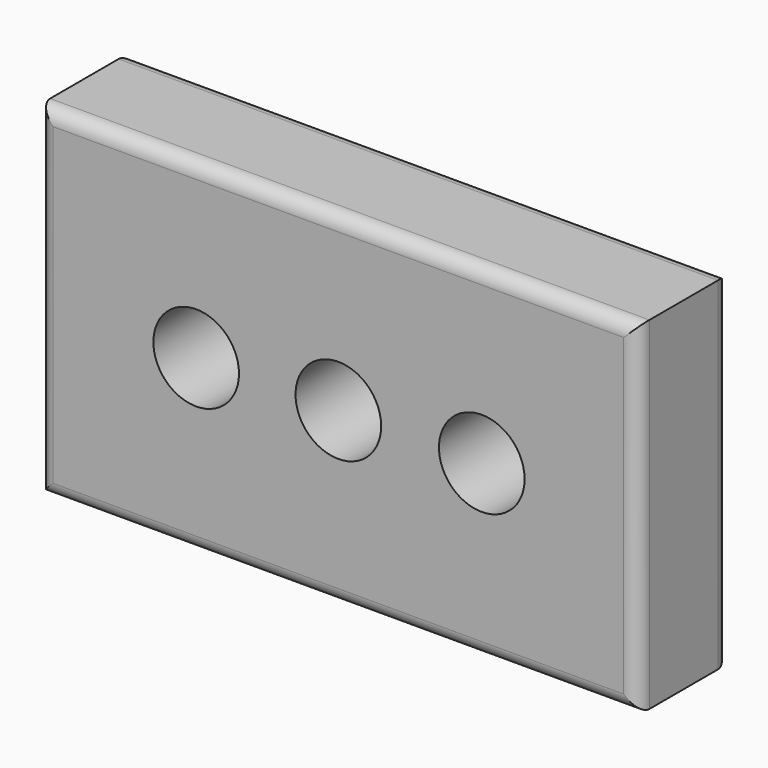
from build123d import *

# Parameters (mm, degrees)
F0_W     = 266.7
F0_H     = 152.4
F0_R     = 19.05
F1_DEPTH = 50.8
F2_R     = 6.35


with BuildPart() as f1:
    # F0 (on Front) → F1 (new body)
    with BuildSketch(Plane.XZ):
        Rectangle(F0_W, F0_H)
        with Locations((-63.2546767592, 0)):
            Circle(F0_R, mode=Mode.SUBTRACT)
        with BuildLine():
            ThreePointArc((-19.05, 0), (0, 19.05), (19.05, 0))
            ThreePointArc((19.05, 0), (0, -19.05), (-19.05, 0))
        make_face(mode=Mode.SUBTRACT)
        with Locations((63.8258159161, 0)):
            Circle(F0_R, mode=Mode.SUBTRACT)
    extrude(amount=F1_DEPTH)

    # F2
    f2_edges = [f1.edges().sort_by_distance(p)[0] for p in [
        (0, -50.8, -76.2),
        (133.35, -50.8, 0),
        (0, -50.8, 76.2),
        (-133.35, -50.8, 0),
        (0, 0, 76.2),
        (133.35, 0, 0),
        (0, 0, -76.2),
        (-133.35, 0, 0),
    ]]
    fillet(f2_edges, radius=F2_R)


solid = f1.part
